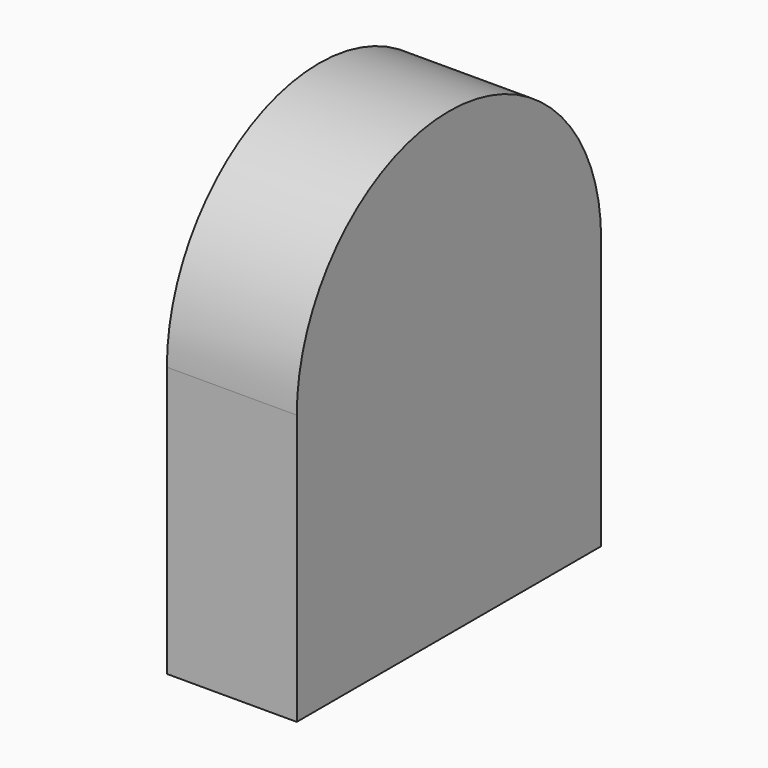
from build123d import *

# Parameters (mm, degrees)
F0_W     = 74.385426
F0_H     = 31.87947
F0_H_2   = 20.923814
F1_DEPTH = 25.4


with BuildPart() as f1:
    # F0 (on Right) → F1 (new body)
    with BuildSketch(Plane.YZ):
        with BuildLine():
            ThreePointArc((-119.204842, 29.547682), (-156.397555, 66.740396), (-193.590268, 29.547682))
            Line((-193.590268, 29.547682), (-119.204842, 29.547682))
        make_face()
        with Locations((-156.397555, 13.607947)):
            Rectangle(F0_W, F0_H)
        with Locations((-156.397555, -12.793695)):
            Rectangle(F0_W, F0_H_2)
    extrude(amount=F1_DEPTH)


solid = f1.part
